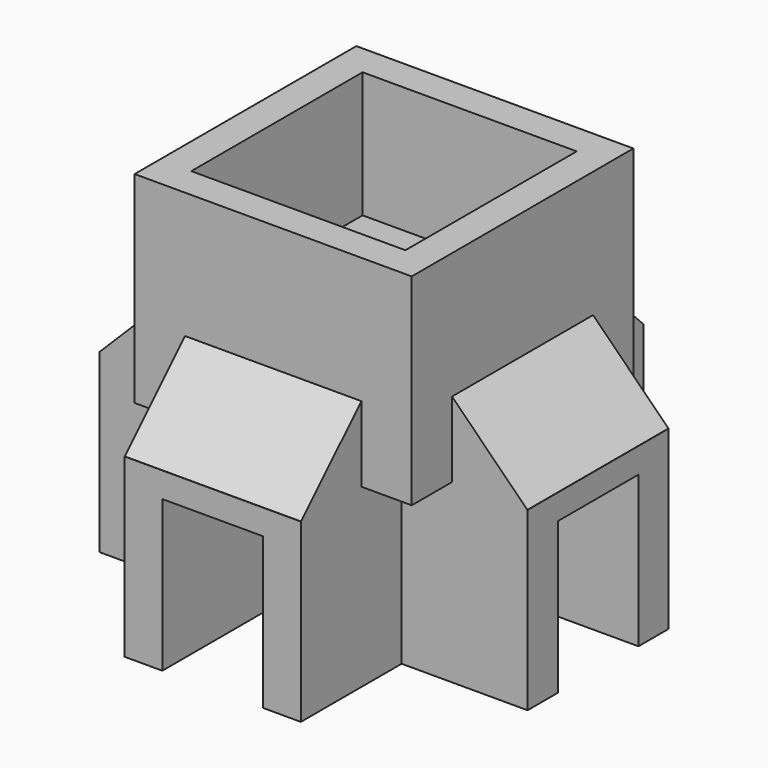
from build123d import *

# Parameters (mm, degrees)
PAD_DEPTH       = 7
POCKET_DEPTH    = 6
SKETCH002_W     = 11
SKETCH002_H     = 11
PAD001_DEPTH    = 5
SKETCH003_W     = 8.5
SKETCH003_H     = 8.5
POCKET001_DEPTH = 4
CHAMFER_SIZE    = 2.99
PAD002_DEPTH    = 7
POCKET002_DEPTH = 6
SKETCH006_W     = 11
SKETCH006_H     = 11
PAD003_DEPTH    = 8
SKETCH007_W     = 8.5
SKETCH007_H     = 8.5
POCKET003_DEPTH = 5
CHAMFER001_SIZE = 2.99


with BuildPart() as whitepart:
    # Sketch → Pad (new body)
    with BuildSketch(Plane.XY):
        Polygon((-8.5, 3.5), (-8.5, -3.5), (-3.5, -3.5), (-3.5, -8.5), (3.5, -8.5), (3.5, -3.5), (8.5, -3.5), (8.5, 3.5), (3.5, 3.5), (3.5, 8.5), (-3.5, 8.5), (-3.5, 3.5), align=None)
    extrude(amount=PAD_DEPTH)

    # Sketch001 (on Face13 of Pad) → Pocket (cut)
    with BuildSketch(Plane(origin=(0, 0, 0), x_dir=(1, 0, 0), z_dir=(0, 0, -1))):
        Polygon((-8.5, -2), (-2, -2), (-2, -8.5), (2, -8.5), (2, -2), (8.5, -2), (8.5, 2), (2, 2), (2, 8.5), (-2, 8.5), (-2, 2), (-8.5, 2), align=None)
    extrude(amount=-POCKET_DEPTH, mode=Mode.SUBTRACT)

    # Sketch002 (on Face8 of Pocket) → Pad001 (join)
    with BuildSketch(Plane.XY.offset(7)):
        Rectangle(SKETCH002_W, SKETCH002_H)
    extrude(amount=PAD001_DEPTH)

    # Sketch003 (on Face35 of Pad001) → Pocket001 (cut)
    with BuildSketch(Plane.XY.offset(12)):
        Rectangle(SKETCH003_W, SKETCH003_H)
    extrude(amount=-POCKET001_DEPTH, mode=Mode.SUBTRACT)

    # Chamfer
    chamfer_edges = [whitepart.edges().sort_by_distance(p)[0] for p in [
        (5.5, 0, 7),
        (0, -5.5, 7),
        (0, 5.5, 7),
        (-5.5, 0, 7),
    ]]
    chamfer(chamfer_edges, length=CHAMFER_SIZE)


with BuildPart() as greenpart:
    # Sketch004 → Pad002 (new body)
    with BuildSketch(Plane.XY):
        Polygon((-8.5, 3.5), (-8.5, -3.5), (-3.5, -3.5), (-3.5, -8.5), (3.5, -8.5), (3.5, -3.5), (8.5, -3.5), (8.5, 3.5), (3.5, 3.5), (3.5, 8.5), (-3.5, 8.5), (-3.5, 3.5), align=None)
    extrude(amount=PAD002_DEPTH)

    # Sketch005 (on Face13 of Pad002) → Pocket002 (cut)
    with BuildSketch(Plane(origin=(0, 0, 0), x_dir=(1, 0, 0), z_dir=(0, 0, -1))):
        Polygon((-8.5, -2), (-2, -2), (-2, -8.5), (2, -8.5), (2, -2), (8.5, -2), (8.5, 2), (2, 2), (2, 8.5), (-2, 8.5), (-2, 2), (-8.5, 2), align=None)
    extrude(amount=-POCKET002_DEPTH, mode=Mode.SUBTRACT)

    # Sketch006 (on Face8 of Pocket002) → Pad003 (join)
    with BuildSketch(Plane.XY.offset(7)):
        Rectangle(SKETCH006_W, SKETCH006_H)
    extrude(amount=PAD003_DEPTH)

    # Sketch007 (on Face35 of Pad003) → Pocket003 (cut)
    with BuildSketch(Plane.XY.offset(15)):
        Rectangle(SKETCH007_W, SKETCH007_H)
    extrude(amount=-POCKET003_DEPTH, mode=Mode.SUBTRACT)

    # Chamfer001
    chamfer001_edges = [greenpart.edges().sort_by_distance(p)[0] for p in [
        (5.5, 0, 7),
        (0, -5.5, 7),
        (0, 5.5, 7),
        (-5.5, 0, 7),
    ]]
    chamfer(chamfer001_edges, length=CHAMFER001_SIZE)


solid = Compound([whitepart.part, greenpart.part])
